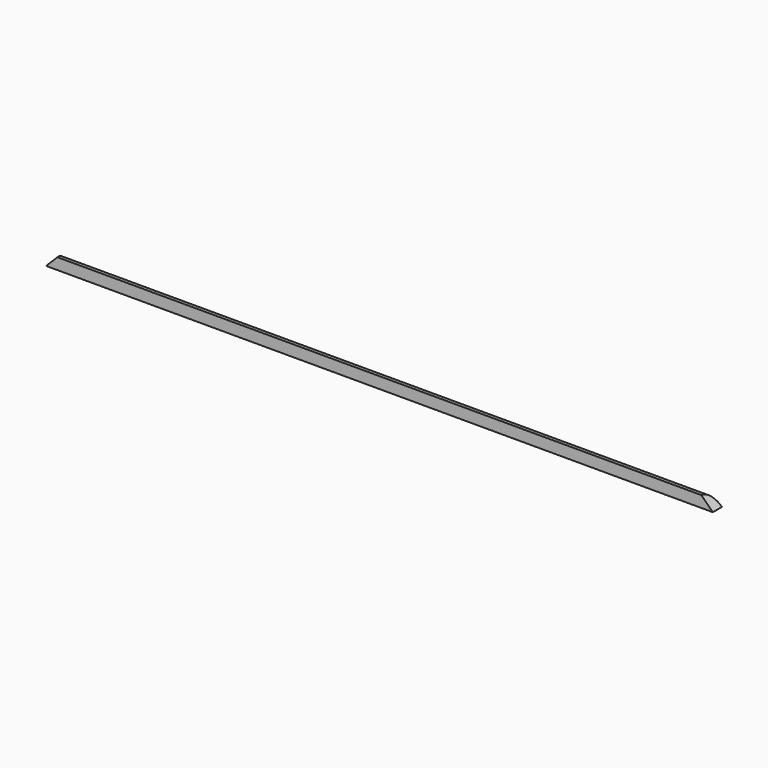
from build123d import *

# Parameters (mm, degrees)
SKETCH001_W  = 470
SKETCH001_H  = 8
PAD001_DEPTH = 4
CHAMFER_SIZE = 7.99
FILLET_R     = 7.99


with BuildPart() as part:
    # Sketch001 → Pad001 (new body, symmetric)
    with BuildSketch(Plane.XZ):
        Rectangle(SKETCH001_W, SKETCH001_H)
    extrude(amount=PAD001_DEPTH, both=True)

    # Chamfer
    chamfer_edges = [part.edges().sort_by_distance(p)[0] for p in [
        (235, 0, 4),
        (-235, 0, 4),
    ]]
    chamfer(chamfer_edges, length=CHAMFER_SIZE)

    # Fillet
    fillet_edges = [part.edges().sort_by_distance(p)[0] for p in [
        (0, 4, 4),
    ]]
    fillet(fillet_edges, radius=FILLET_R)


solid = part.part
